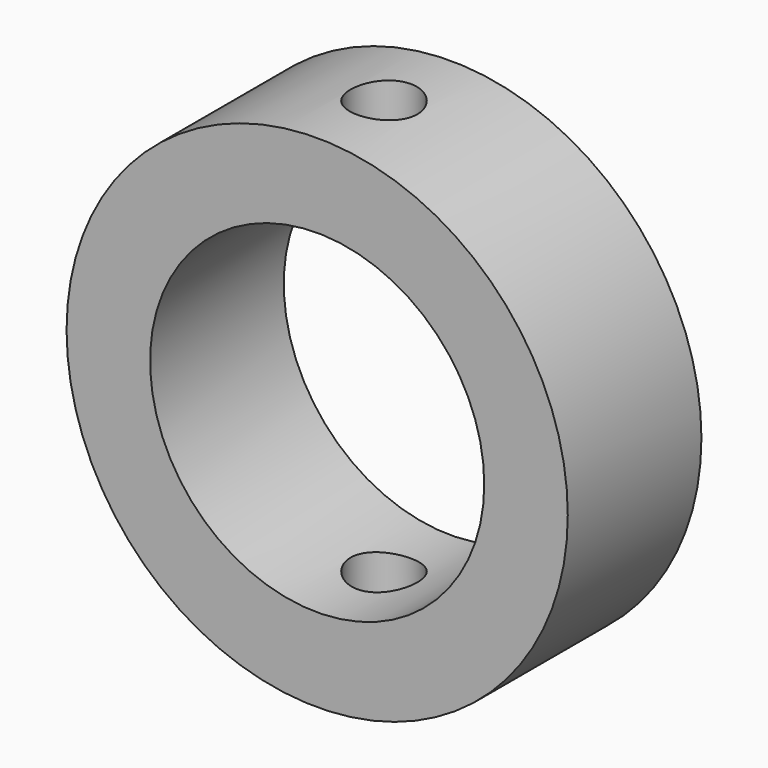
from build123d import *

# Parameters (mm, degrees)
F0_R     = 15
F0_R_2   = 22.5
F1_DEPTH = 15
F2_DEPTH = 15.001
F3_R     = 3
F4_DEPTH = 25


with BuildPart() as f1:
    # F0 (on Front) → F1 (new body)
    with BuildSketch(Plane.XZ):
        Circle(F0_R)
        Circle(F0_R_2)
        Circle(F0_R, mode=Mode.SUBTRACT)
    extrude(amount=-F1_DEPTH)

    # F0 (on Front) → F2 (cut, through all)
    with BuildSketch(Plane.XZ):
        Circle(F0_R)
    extrude(amount=-F2_DEPTH, mode=Mode.SUBTRACT)

    # F3 (on Top) → F4 (cut, symmetric)
    with BuildSketch(Plane.XY):
        with Locations((0, 7.5)):
            Circle(F3_R)
    extrude(amount=F4_DEPTH, both=True, mode=Mode.SUBTRACT)


solid = f1.part
